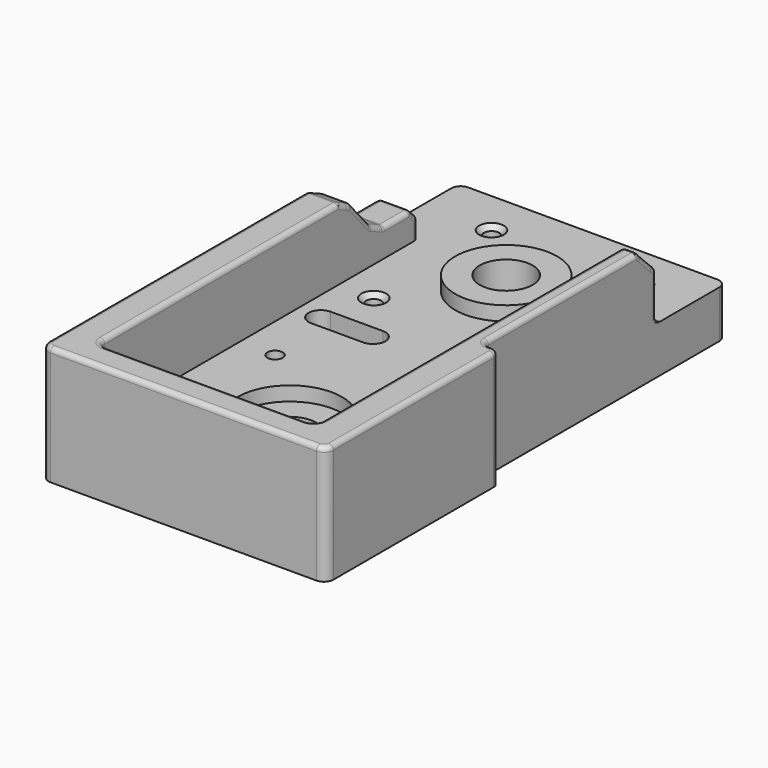
from build123d import *

# Parameters (mm, degrees)
SKETCH_W        = 60
SKETCH_H        = 110
SKETCH_R        = 1.6
SKETCH_R_2      = 5.575
PAD_DEPTH       = 10
SKETCH004_R     = 10.75
PAD001_DEPTH    = 3
SKETCH003_R     = 5.575
POCKET_DEPTH    = 13.001
SKETCH006_R     = 11
POCKET001_DEPTH = 3
SKETCH007_R     = 3
POCKET002_DEPTH = 4
POCKET003_DEPTH = 10.001
SKETCH009_R     = 1.7
POCKET004_DEPTH = 12
PAD002_DEPTH    = 15
POCKET005_DEPTH = 8
SKETCH016_W     = 16.819336
SKETCH016_H     = 71.10405
POCKET006_DEPTH = 25.001
FILLET_R        = 1.5
FILLET001_R     = 1.5
CHAMFER_SIZE    = 2
FILLET002_R     = 2
FILLET003_R     = 2
CHAMFER001_SIZE = 5
CHAMFER002_SIZE = 1
CHAMFER003_SIZE = 1
CHAMFER004_SIZE = 1
FILLET004_R     = 1
FILLET005_R     = 1
FILLET006_R     = 1
FILLET007_R     = 1
FILLET008_R     = 1
FILLET009_R     = 1


with BuildPart() as part:
    # Sketch → Pad (new body)
    with BuildSketch(Plane.XY):
        with Locations((0, -30)):
            Rectangle(SKETCH_W, SKETCH_H)
        with Locations((-15.5, 15.5)):
            Circle(SKETCH_R, mode=Mode.SUBTRACT)
        with Locations((15.5, 15.5)):
            Circle(SKETCH_R, mode=Mode.SUBTRACT)
        with Locations((-15.5, -15.5)):
            Circle(SKETCH_R, mode=Mode.SUBTRACT)
        with Locations((15.5, -15.5)):
            Circle(SKETCH_R, mode=Mode.SUBTRACT)
        with Locations((0, -57)):
            Circle(SKETCH_R_2, mode=Mode.SUBTRACT)
        with Locations((-15.5, -41.5)):
            Circle(SKETCH_R, mode=Mode.SUBTRACT)
        with Locations((15.5, -41.5)):
            Circle(SKETCH_R, mode=Mode.SUBTRACT)
        with Locations((-15.5, -72.5)):
            Circle(SKETCH_R, mode=Mode.SUBTRACT)
        with Locations((15.5, -72.5)):
            Circle(SKETCH_R, mode=Mode.SUBTRACT)
    extrude(amount=PAD_DEPTH)

    # Sketch004 (on Face15 of Pad) → Pad001 (join)
    with BuildSketch(Plane.XY.offset(10)):
        Circle(SKETCH004_R)
    extrude(amount=PAD001_DEPTH)

    # Sketch003 (on Face17 of Pad001) → Pocket (cut, through all)
    with BuildSketch(Plane.XY.offset(13)):
        Circle(SKETCH003_R)
    extrude(amount=-POCKET_DEPTH, mode=Mode.SUBTRACT)

    # Sketch006 (on Face5 of Pocket) → Pocket001 (cut)
    with BuildSketch(Plane.XY.offset(10)):
        with Locations((0, -57)):
            Circle(SKETCH006_R)
    extrude(amount=-POCKET001_DEPTH, mode=Mode.SUBTRACT)

    # Sketch007 (on Face4 of Pocket001) → Pocket002 (cut)
    with BuildSketch(Plane(origin=(0, 0, 0), x_dir=(1, 0, 0), z_dir=(0, 0, -1))):
        with Locations((-15.5, 72.5)):
            Circle(SKETCH007_R)
        with Locations((15.5, 72.5)):
            Circle(SKETCH007_R)
        with Locations((15.5, 41.5)):
            Circle(SKETCH007_R)
        with Locations((-15.5, 41.5)):
            Circle(SKETCH007_R)
    extrude(amount=-POCKET002_DEPTH, mode=Mode.SUBTRACT)

    # Sketch008 (on Face5 of Pocket002) → Pocket003 (cut, through all)
    with BuildSketch(Plane.XY.offset(10)):
        with BuildLine():
            ThreePointArc((-18, -23.72), (-20.6, -26.32), (-18, -28.92))
            Line((-18, -28.92), (-7, -28.92))
            ThreePointArc((-7, -28.92), (-4.4, -26.32), (-7, -23.72))
            Line((-18, -23.72), (-7, -23.72))
        make_face()
    extrude(amount=-POCKET003_DEPTH, mode=Mode.SUBTRACT)

    # Sketch009 (on Face2 of Pocket003) → Pocket004 (cut)
    with BuildSketch(Plane(origin=(-30, 0, 0), x_dir=(0, -1, 0), z_dir=(-1, 0, 0))):
        with Locations((26.23, 5)):
            Circle(SKETCH009_R)
    extrude(amount=-POCKET004_DEPTH, mode=Mode.SUBTRACT)

    # Sketch014 (on Face5 of Pocket004) → Pad002 (join)
    with BuildSketch(Plane.XY.offset(10)):
        Polygon((-30, 5.5), (-23, 5.5), (-23, -79), (23, -79), (23, 6.5), (30, 6.5), (30, -85), (-30, -85), align=None)
    extrude(amount=PAD002_DEPTH)

    # Sketch015 (on Face7 of Pad002) → Pocket005 (cut)
    with BuildSketch(Plane(origin=(-30, 0, 0), x_dir=(0, -1, 0), z_dir=(-1, 0, 0))):
        Polygon((-15.404255, 15.996717), (5.524865, 15.996717), (23.386197, 36.605289), (-20.743336, 40.013882), align=None)
    extrude(amount=-POCKET005_DEPTH, mode=Mode.SUBTRACT)

    # Sketch016 (on Face38 of Pocket005) → Pocket006 (cut, through all)
    with BuildSketch(Plane.XY.offset(25)):
        with Locations((34.909668, -3.7342)):
            Rectangle(SKETCH016_W, SKETCH016_H)
    extrude(amount=-POCKET006_DEPTH, mode=Mode.SUBTRACT)

    # Fillet
    fillet_edges = [part.edges().sort_by_distance(p)[0] for p in [
        (30, -39.286225, 17.5),
    ]]
    fillet(fillet_edges, radius=FILLET_R)

    # Fillet001
    fillet001_edges = [part.edges().sort_by_distance(p)[0] for p in [
        (26.5, -39.286225, 12.5),
    ]]
    fillet(fillet001_edges, radius=FILLET001_R)

    # Chamfer
    chamfer_edges = [part.edges().sort_by_distance(p)[0] for p in [
        (-26.5, 5.5, 15.996717),
        (-26.5, -5.524865, 15.996717),
        (-26.5, -13.327959, 25),
    ]]
    chamfer(chamfer_edges, length=CHAMFER_SIZE)

    # Fillet002
    fillet002_edges = [part.edges().sort_by_distance(p)[0] for p in [
        (-30, 25, 5),
        (26.5, 25, 5),
        (30, -85, 17.5),
        (-30, -85, 17.5),
    ]]
    fillet(fillet002_edges, radius=FILLET002_R)

    # Fillet003
    fillet003_edges = [part.edges().sort_by_distance(p)[0] for p in [
        (-23, -79, 17.5),
        (23, -79, 17.5),
    ]]
    fillet(fillet003_edges, radius=FILLET003_R)

    # Chamfer001
    chamfer001_edges = [part.edges().sort_by_distance(p)[0] for p in [
        (24.75, 6.5, 25),
    ]]
    chamfer(chamfer001_edges, length=CHAMFER001_SIZE)

    # Chamfer002
    chamfer002_edges = [part.edges().sort_by_distance(p)[0] for p in [
        (13.9, -15.5, 10),
        (13.9, 15.5, 10),
        (-17.1, -15.5, 10),
        (-17.1, 15.5, 10),
    ]]
    chamfer(chamfer002_edges, length=CHAMFER002_SIZE)

    # Chamfer003
    chamfer003_edges = [part.edges().sort_by_distance(p)[0] for p in [
        (-17.1, -41.5, 4),
        (-17.1, -72.5, 4),
        (13.9, -72.5, 4),
        (13.9, -41.5, 4),
    ]]
    chamfer(chamfer003_edges, length=CHAMFER003_SIZE)

    # Chamfer004
    chamfer004_edges = [part.edges().sort_by_distance(p)[0] for p in [
        (-17.1, -15.5, 0),
        (-17.1, 15.5, 0),
        (13.9, 15.5, 0),
        (13.9, -15.5, 0),
    ]]
    chamfer(chamfer004_edges, length=CHAMFER004_SIZE)

    # Fillet004
    fillet004_edges = [part.edges().sort_by_distance(p)[0] for p in [
        (23, -37.75, 25),
        (24.75, 1.5, 25),
        (22.414214, -78.414214, 25),
        (26.5, -18.143112, 25),
        (0, -79, 25),
        (26.93934, -38.846885, 25),
        (-22.414214, -78.414214, 25),
        (28.25, -39.286225, 25),
        (-23, -46.16398, 25),
        (29.56066, -39.725565, 25),
        (-26.5, -15.327959, 25),
        (30, -61.893113, 25),
        (-30, -49.16398, 25),
        (29.414214, -84.414214, 25),
        (-29.414214, -84.414214, 25),
        (0, -85, 25),
    ]]
    fillet(fillet004_edges, radius=FILLET004_R)

    # Fillet005
    fillet005_edges = [part.edges().sort_by_distance(p)[0] for p in [
        (-30, 5.5, 11.998359),
    ]]
    fillet(fillet005_edges, radius=FILLET005_R)

    # Fillet006
    fillet006_edges = [part.edges().sort_by_distance(p)[0] for p in [
        (-23, 5.5, 11.998359),
    ]]
    fillet(fillet006_edges, radius=FILLET006_R)

    # Fillet007
    fillet007_edges = [part.edges().sort_by_distance(p)[0] for p in [
        (26.5, 6.5, 15),
        (24.75, 6.5, 10),
        (23, 6.5, 15),
        (24.75, 6.5, 20),
    ]]
    fillet(fillet007_edges, radius=FILLET007_R)

    # Fillet008
    fillet008_edges = [part.edges().sort_by_distance(p)[0] for p in [
        (23, 4, 22.5),
        (23.070792, 5.869557, 20.630443),
        (23.070792, 2.130443, 24.369557),
        (24.75, 6.207107, 20.292893),
        (24.75, 1.792893, 24.707107),
        (26.429208, 5.869557, 20.630443),
        (26.429208, 2.130443, 24.369557),
        (26.5, 4, 22.5),
    ]]
    fillet(fillet008_edges, radius=FILLET008_R)

    # Fillet009
    fillet009_edges = [part.edges().sort_by_distance(p)[0] for p in [
        (-23, -12.578013, 23.744321),
        (-23.120506, -14.180197, 24.47591),
        (-26.5, -15.130102, 24.909654),
        (-29.879494, -14.180197, 24.47591),
        (-30, -12.578013, 23.744321),
        (-26.5, -12.018074, 23.488643),
        (-30, -9.426412, 20.498358),
        (-26.5, -6.83475, 17.508074),
        (-23, -9.426412, 20.498358),
        (-30, -5.179807, 16.752396),
        (-23, -5.179807, 16.752396),
        (-26.5, -3.524865, 15.996717),
        (-30, -0.012433, 15.996717),
        (-26.5, 3.5, 15.996717),
        (-23, -0.012433, 15.996717),
        (-26.5, 5.5, 13.996717),
        (-23.236704, 5.146049, 14.350668),
        (-29.763296, 5.146049, 14.350668),
        (-23, 4, 15.496717),
        (-30, 4, 15.496717),
    ]]
    fillet(fillet009_edges, radius=FILLET009_R)


solid = part.part
